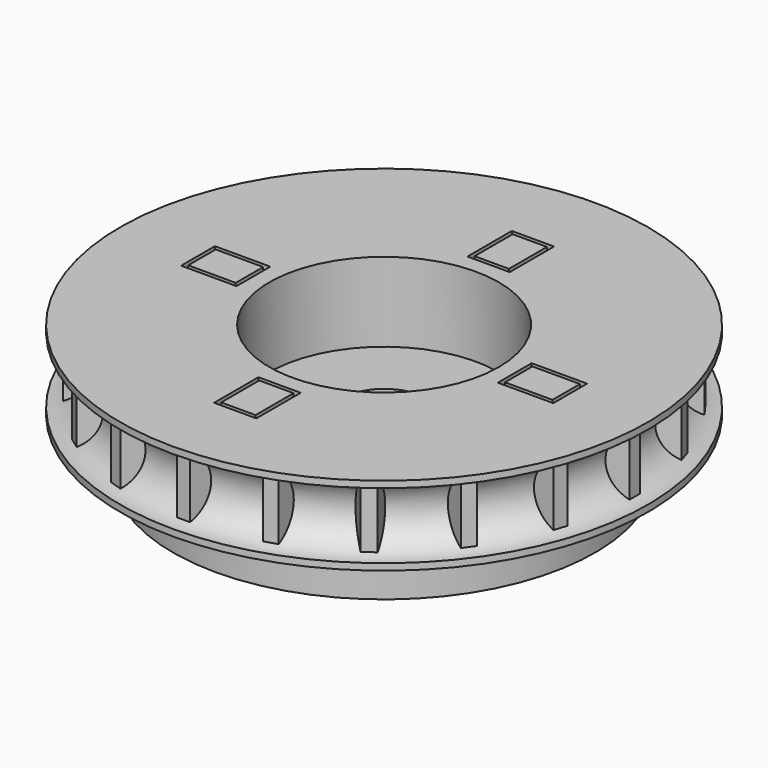
from build123d import *

# Parameters (mm, degrees)
F3_DEPTH       = 6
F4_DEPTH       = 25
F5_D           = 6.6
F5_CBORE_D     = 17.4
F5_CBORE_DEPTH = 6
F0_W           = 16
F0_H           = 4
F8_DEPTH       = 6
F9_D           = 6.6


with BuildPart() as f1:
    # F0 (on Right) → F1 (revolve)
    with BuildSketch(Plane.YZ):
        with BuildLine():
            Line((0, 0), (0, 6))
            Line((0, 6), (-20, 6))
            Line((-20, 6), (-20, 5.5))
            ThreePointArc((-20, 5.5), (-17.5, 3), (-20, 0.5))
            Line((-20, 0.5), (-20, 0))
            Line((-20, 0), (-16, 0))
            Line((-16, 0), (0, 0))
        make_face()
    revolve(axis=Axis((0, 0, 3), (0, 0, -1)))

    # F2 (on face) → F3 (join)
    with BuildSketch(Plane.XY.offset(6)):
        Polygon((-17, 0), (-17, 1), (-19, 0.5), (-19, -0.5), (-17, -1), align=None)
        Polygon((-1.6, 9.9), (0, 9.9), (1.6, 9.9), (1.6, 14.1), (-1.6, 14.1), align=None)
        Polygon((-16.4769777714, -4.3022323881), (-18.2245823068, -5.395794635), (-17.9155653124, -6.3468511513), (-15.8589437826, -6.2043454207), (-16.167960777, -5.2532889044), align=None)
        Polygon((-14.3410741567, -9.1833322946), (-15.6652155193, -10.7634112964), (-15.077430267, -11.5724282907), (-13.1655036521, -10.8013662833), (-13.7532889044, -9.992349289), align=None)
        Polygon((-10.8013662833, -13.1655036521), (-11.5724282907, -15.077430267), (-10.7634112964, -15.6652155193), (-9.1833322946, -14.3410741567), (-9.992349289, -13.7532889044), align=None)
        Polygon((-6.2043454207, -15.8589437826), (-6.3468511513, -17.9155653124), (-5.395794635, -18.2245823068), (-4.3022323881, -16.4769777714), (-5.2532889044, -16.167960777), align=None)
        Polygon((-1, -17), (-0.5, -19), (0.5, -19), (1, -17), (0, -17), align=None)
        Polygon((4.3022323881, -16.4769777714), (5.395794635, -18.2245823068), (6.3468511513, -17.9155653124), (6.2043454207, -15.8589437826), (5.2532889044, -16.167960777), align=None)
        Polygon((9.1833322946, -14.3410741567), (10.7634112964, -15.6652155193), (11.5724282907, -15.077430267), (10.8013662833, -13.1655036521), (9.992349289, -13.7532889044), align=None)
        Polygon((13.1655036521, -10.8013662833), (15.077430267, -11.5724282907), (15.6652155193, -10.7634112964), (14.3410741567, -9.1833322946), (13.7532889044, -9.992349289), align=None)
        Polygon((15.8589437826, -6.2043454207), (17.9155653124, -6.3468511513), (18.2245823068, -5.395794635), (16.4769777714, -4.3022323881), (16.167960777, -5.2532889044), align=None)
        Polygon((17, -1), (19, -0.5), (19, 0.5), (17, 1), (17, 0), align=None)
        Polygon((16.4769777714, 4.3022323881), (18.2245823068, 5.395794635), (17.9155653124, 6.3468511513), (15.8589437826, 6.2043454207), (16.167960777, 5.2532889044), align=None)
        Polygon((14.3410741567, 9.1833322946), (15.6652155193, 10.7634112964), (15.077430267, 11.5724282907), (13.1655036521, 10.8013662833), (13.7532889044, 9.992349289), align=None)
        Polygon((10.8013662833, 13.1655036521), (11.5724282907, 15.077430267), (10.7634112964, 15.6652155193), (9.1833322946, 14.3410741567), (9.992349289, 13.7532889044), align=None)
        Polygon((6.2043454207, 15.8589437826), (6.3468511513, 17.9155653124), (5.395794635, 18.2245823068), (4.3022323881, 16.4769777714), (5.2532889044, 16.167960777), align=None)
        Polygon((1, 17), (0.5, 19), (-0.5, 19), (-1, 17), (0, 17), align=None)
        Polygon((-4.3022323881, 16.4769777714), (-5.395794635, 18.2245823068), (-6.3468511513, 17.9155653124), (-6.2043454207, 15.8589437826), (-5.2532889044, 16.167960777), align=None)
        Polygon((-9.1833322946, 14.3410741567), (-10.7634112964, 15.6652155193), (-11.5724282907, 15.077430267), (-10.8013662833, 13.1655036521), (-9.992349289, 13.7532889044), align=None)
        Polygon((-13.1655036521, 10.8013662833), (-15.077430267, 11.5724282907), (-15.6652155193, 10.7634112964), (-14.3410741567, 9.1833322946), (-13.7532889044, 9.992349289), align=None)
        Polygon((-15.8589437826, 6.2043454207), (-17.9155653124, 6.3468511513), (-18.2245823068, 5.395794635), (-16.4769777714, 4.3022323881), (-16.167960777, 5.2532889044), align=None)
        Polygon((-9.9, -1.6), (-9.9, 0), (-9.9, 1.6), (-14.1, 1.6), (-14.1, -1.6), align=None)
        Polygon((1.6, -9.9), (0, -9.9), (-1.6, -9.9), (-1.6, -14.1), (1.6, -14.1), align=None)
        Polygon((9.9, 1.6), (9.9, 0), (9.9, -1.6), (14.1, -1.6), (14.1, 1.6), align=None)
    extrude(amount=-F3_DEPTH)

    # F2 (on face) → F4 (cut)
    with BuildSketch(Plane.XY.offset(6)):
        Polygon((-1.6, 9.9), (0, 9.9), (1.6, 9.9), (1.6, 14.1), (-1.6, 14.1), align=None)
        Polygon((9.9, 1.6), (9.9, 0), (9.9, -1.6), (14.1, -1.6), (14.1, 1.6), align=None)
        Polygon((1.6, -9.9), (0, -9.9), (-1.6, -9.9), (-1.6, -14.1), (1.6, -14.1), align=None)
        Polygon((-9.9, -1.6), (-9.9, 0), (-9.9, 1.6), (-14.1, 1.6), (-14.1, -1.6), align=None)
    extrude(amount=-F4_DEPTH, mode=Mode.SUBTRACT)

    # F5 (through all)
    with Locations(Plane.XY.offset(6)):
        with Locations((0, 0)):
            CounterBoreHole(F5_D / 2, F5_CBORE_D / 2, F5_CBORE_DEPTH)


with BuildPart() as f6:
    # F0 (on Right) → F6 (revolve)
    with BuildSketch(Plane.YZ):
        with Locations((-8, -2)):
            Rectangle(F0_W, F0_H)
    revolve(axis=Axis((0, 0, -2), (0, 0, 1)))

    # F7 (on face) → F8 (join)
    with BuildSketch(Plane.XY):
        Polygon((1.3, 13.8), (-1.3, 13.8), (-1.3, 10.2), (0, 10.2), (1.3, 10.2), align=None)
        Polygon((-10.2, 1.3), (-13.8, 1.3), (-13.8, -1.3), (-10.2, -1.3), (-10.2, 0), align=None)
        Polygon((-1.3, -10.2), (-1.3, -13.8), (1.3, -13.8), (1.3, -10.2), (0, -10.2), align=None)
        Polygon((10.2, -1.3), (13.8, -1.3), (13.8, 1.3), (10.2, 1.3), (10.2, 0), align=None)
    extrude(amount=F8_DEPTH)

    # F9 (through all)
    with Locations(Plane.XY.offset(6)):
        with Locations((0, 0)):
            Hole(F9_D / 2)


solid = Compound([f1.part, f6.part])
